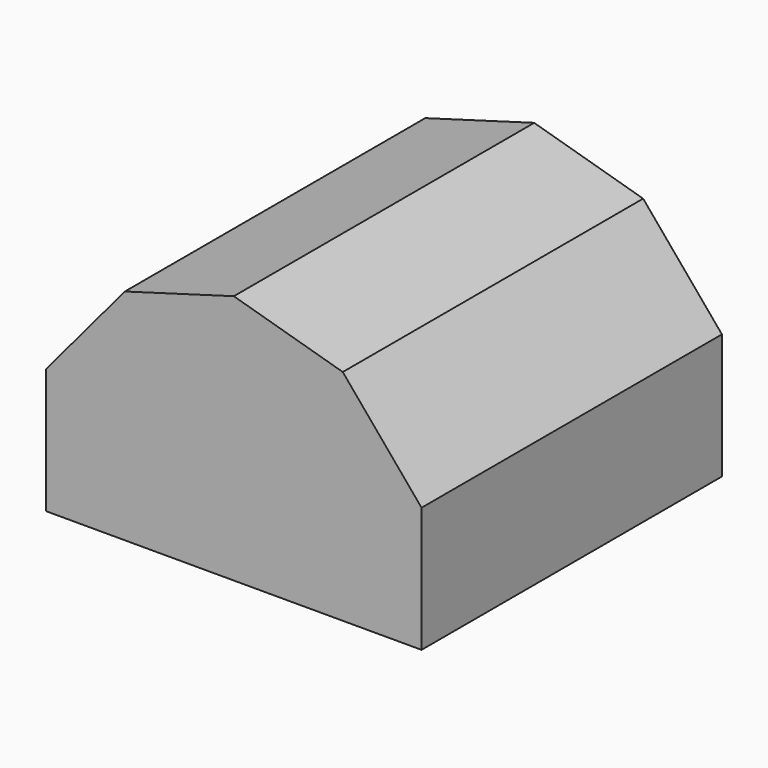
from build123d import *

# Parameters (mm, degrees)
F0_W     = 3657.6
F0_H     = 2438.4
F1_DEPTH = 3657.6
F3_DEPTH = 3657.6


with BuildPart() as f1:
    # F0 (on Front) → F1 (new body)
    with BuildSketch(Plane.XZ):
        Rectangle(F0_W, F0_H)
    extrude(amount=-F1_DEPTH)

    # F2 (on face) → F3 (cut)
    with BuildSketch(Plane.XZ):
        Polygon((-1828.8, 1219.2), (-1828.8, 0), (-1061.527297, 914.4), (0, 1219.2), align=None)
        Polygon((1828.8, 1219.2), (0, 1219.2), (1061.527297, 914.4), (1828.8, 0), align=None)
    extrude(amount=-F3_DEPTH, mode=Mode.SUBTRACT)


solid = f1.part
